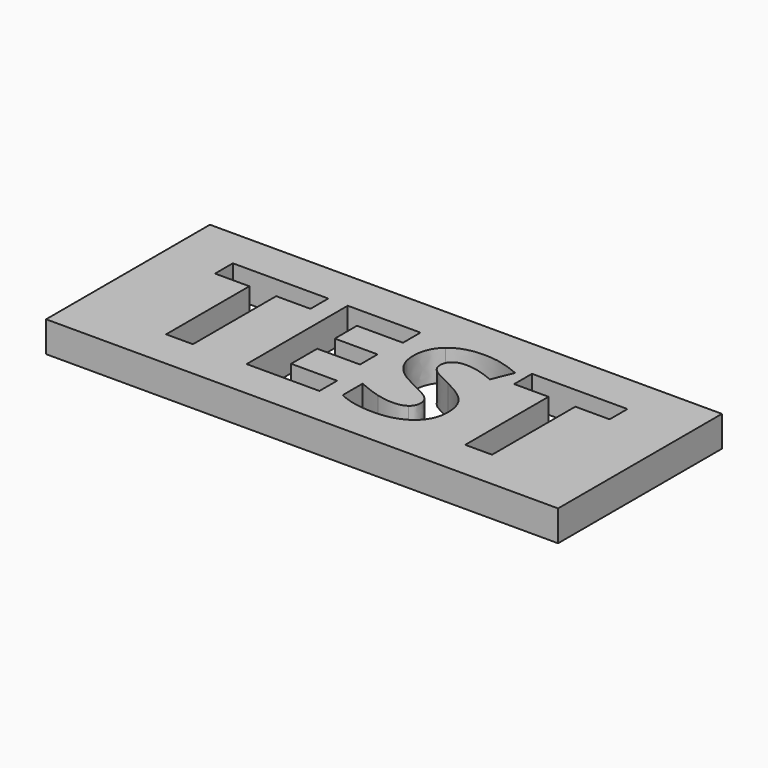
from build123d import *

# Parameters (mm, degrees)
F0_W     = 50
F0_H     = 20
F1_DEPTH = 3


with BuildPart() as f1:
    # F0 (on Top) → F1 (new body)
    with BuildSketch(Plane.XY):
        Rectangle(F0_W, F0_H)
        Polygon((-13.6844948676, 3.9411129119), (-13.6844948676, -6.2236628849), (-16.3019989195, -6.2236628849), (-16.3019989195, 3.9411129119), (-19.6542409508, 3.9411129119), (-19.6542409508, 6.1183144246), (-10.3349540789, 6.1183144246), (-10.3349540789, 3.9411129119), align=None, mode=Mode.SUBTRACT)
        Polygon((-1.3290113452, -4.0626688277), (-1.3290113452, -6.2236628849), (-8.4359805511, -6.2236628849), (-8.4359805511, 6.1183144246), (-1.3290113452, 6.1183144246), (-1.3290113452, 3.9735278228), (-5.8184764992, 3.9735278228), (-5.8184764992, 1.2641815235), (-1.639654241, 1.2641815235), (-1.639654241, -0.8806050783), (-5.8184764992, -0.8806050783), (-5.8184764992, -4.0626688277), align=None, mode=Mode.SUBTRACT)
        with BuildLine():
            add(Edge.make_bspline(
                [(7.8889789303, -0.7576985413), (8.5305240411, -1.5883306321), (8.5305240411, -2.7957860616)],
                knots=[0, 0, 0, 1, 1, 1], degree=2))
            add(Edge.make_bspline(
                [(8.5305240411, -2.7957860616), (8.5305240411, -4.4678552134), (7.3271204754, -5.4308481902)],
                knots=[0, 0, 0, 1, 1, 1], degree=2))
            add(Edge.make_bspline(
                [(7.3271204754, -5.4308481902), (6.1237169098, -6.3938411669), (3.9816315505, -6.3938411669)],
                knots=[0, 0, 0, 1, 1, 1], degree=2))
            add(Edge.make_bspline(
                [(3.9816315505, -6.3938411669), (2.0043219881, -6.3938411669), (0.4862236629, -5.6482982172)],
                knots=[0, 0, 0, 1, 1, 1], degree=2))
            Line((0.4862236629, -5.6482982172), (0.4862236629, -3.2171799028))
            add(Edge.make_bspline(
                [(0.4862236629, -3.2171799028), (1.734197731, -3.7763371151), (2.5999459751, -4.0032414911)],
                knots=[0, 0, 0, 1, 1, 1], degree=2))
            add(Edge.make_bspline(
                [(2.5999459751, -4.0032414911), (3.4656942193, -4.2301458671), (4.1842247434, -4.2301458671)],
                knots=[0, 0, 0, 1, 1, 1], degree=2))
            add(Edge.make_bspline(
                [(4.1842247434, -4.2301458671), (5.0432198811, -4.2301458671), (5.5037817396, -3.9019448947)],
                knots=[0, 0, 0, 1, 1, 1], degree=2))
            add(Edge.make_bspline(
                [(5.5037817396, -3.9019448947), (5.9643435981, -3.5737439222), (5.9643435981, -2.9227444625)],
                knots=[0, 0, 0, 1, 1, 1], degree=2))
            add(Edge.make_bspline(
                [(5.9643435981, -2.9227444625), (5.9643435981, -2.5607779579), (5.7617504052, -2.2771474878)],
                knots=[0, 0, 0, 1, 1, 1], degree=2))
            add(Edge.make_bspline(
                [(5.7617504052, -2.2771474878), (5.5591572123, -1.9935170178), (5.1661264182, -1.7328471097)],
                knots=[0, 0, 0, 1, 1, 1], degree=2))
            add(Edge.make_bspline(
                [(5.1661264182, -1.7328471097), (4.773095624, -1.4721772015), (3.5656401945, -0.8968125338)],
                knots=[0, 0, 0, 1, 1, 1], degree=2))
            add(Edge.make_bspline(
                [(3.5656401945, -0.8968125338), (2.4365207996, -0.3646677472), (1.8706104808, 0.1242571583)],
                knots=[0, 0, 0, 1, 1, 1], degree=2))
            add(Edge.make_bspline(
                [(1.8706104808, 0.1242571583), (1.3047001621, 0.6131820637), (0.9670448406, 1.2641815235)],
                knots=[0, 0, 0, 1, 1, 1], degree=2))
            add(Edge.make_bspline(
                [(0.9670448406, 1.2641815235), (0.6293895192, 1.9151809833), (0.6293895192, 2.7822798487)],
                knots=[0, 0, 0, 1, 1, 1], degree=2))
            add(Edge.make_bspline(
                [(0.6293895192, 2.7822798487), (0.6293895192, 4.4219340897), (1.7396002161, 5.3579146407)],
                knots=[0, 0, 0, 1, 1, 1], degree=2))
            add(Edge.make_bspline(
                [(1.7396002161, 5.3579146407), (2.849810913, 6.2938951918), (4.8082117774, 6.2938951918)],
                knots=[0, 0, 0, 1, 1, 1], degree=2))
            add(Edge.make_bspline(
                [(4.8082117774, 6.2938951918), (5.7698541329, 6.2938951918), (6.6437061048, 6.0669908158)],
                knots=[0, 0, 0, 1, 1, 1], degree=2))
            add(Edge.make_bspline(
                [(6.6437061048, 6.0669908158), (7.5175580767, 5.8400864398), (8.4710967045, 5.4267963263)],
                knots=[0, 0, 0, 1, 1, 1], degree=2))
            Line((8.4710967045, 5.4267963263), (7.6283090222, 3.3900594273))
            add(Edge.make_bspline(
                [(7.6283090222, 3.3900594273), (6.639654241, 3.7952458131), (5.9940572663, 3.9559697461)],
                knots=[0, 0, 0, 1, 1, 1], degree=2))
            add(Edge.make_bspline(
                [(5.9940572663, 3.9559697461), (5.3484602917, 4.1166936791), (4.7244732577, 4.1166936791)],
                knots=[0, 0, 0, 1, 1, 1], degree=2))
            add(Edge.make_bspline(
                [(4.7244732577, 4.1166936791), (3.9816315505, 4.1166936791), (3.5845488925, 3.7709346299)],
                knots=[0, 0, 0, 1, 1, 1], degree=2))
            add(Edge.make_bspline(
                [(3.5845488925, 3.7709346299), (3.1874662345, 3.4251755808), (3.1874662345, 2.868719611)],
                knots=[0, 0, 0, 1, 1, 1], degree=2))
            add(Edge.make_bspline(
                [(3.1874662345, 2.868719611), (3.1874662345, 2.5229605619), (3.3481901675, 2.2649918963)],
                knots=[0, 0, 0, 1, 1, 1], degree=2))
            add(Edge.make_bspline(
                [(3.3481901675, 2.2649918963), (3.5089141005, 2.0070232307), (3.8587250135, 1.7666126418)],
                knots=[0, 0, 0, 1, 1, 1], degree=2))
            add(Edge.make_bspline(
                [(3.8587250135, 1.7666126418), (4.2085359265, 1.5262020529), (5.5159373312, 0.9022150189)],
                knots=[0, 0, 0, 1, 1, 1], degree=2))
            add(Edge.make_bspline(
                [(5.5159373312, 0.9022150189), (7.2474338196, 0.0729335494), (7.8889789303, -0.7576985413)],
                knots=[0, 0, 0, 1, 1, 1], degree=2))
        make_face(mode=Mode.SUBTRACT)
        Polygon((15.529443544, 3.9411129119), (15.529443544, -6.2236628849), (12.9119394922, -6.2236628849), (12.9119394922, 3.9411129119), (9.5596974608, 3.9411129119), (9.5596974608, 6.1183144246), (18.8789843328, 6.1183144246), (18.8789843328, 3.9411129119), align=None, mode=Mode.SUBTRACT)
    extrude(amount=F1_DEPTH)


solid = f1.part
